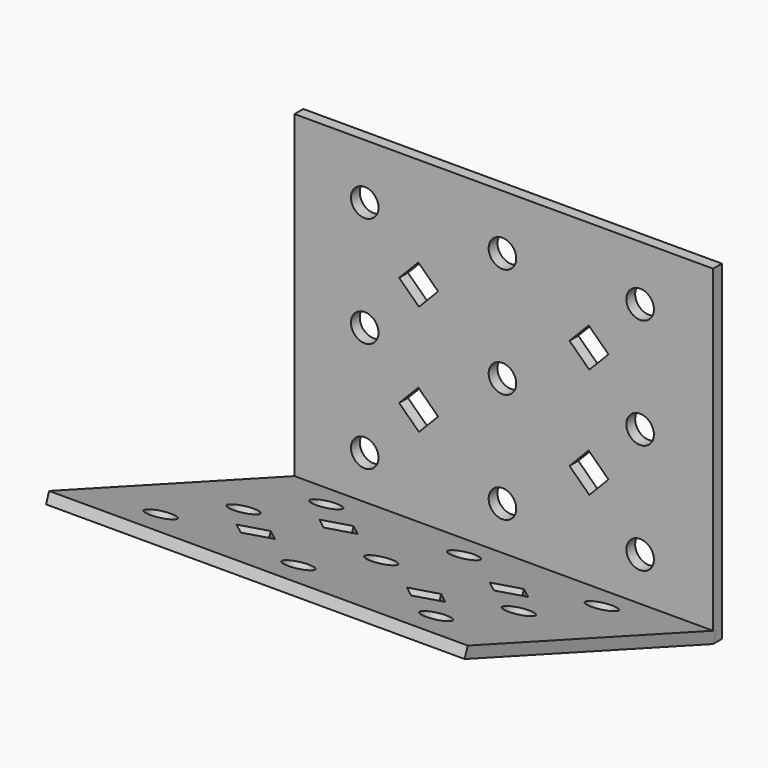
from build123d import *

# Parameters (mm, degrees)
F1_W     = 76
F1_H     = 60
F1_R     = 2.5
F2_DEPTH = 2
F3_ANGLE = 70


with BuildPart() as f2:
    # F1 (on Front) → F2 (new body)
    with BuildSketch(Plane.XZ):
        with Locations((0, 30)):
            Rectangle(F1_W, F1_H)
        with Locations((-25.25, 10)):
            Circle(F1_R, mode=Mode.SUBTRACT)
        with Locations((-0.25, 10)):
            Circle(F1_R, mode=Mode.SUBTRACT)
        Polygon((-15.5264410286, 23.5964410286), (-11.93, 20.1228820573), (-15.4035589714, 16.5264410286), (-19, 20), align=None, mode=Mode.SUBTRACT)
        with Locations((24.75, 10)):
            Circle(F1_R, mode=Mode.SUBTRACT)
        Polygon((15.4035589714, 23.5964410286), (19, 20.1228820573), (15.5264410286, 16.5264410286), (11.93, 20), align=None, mode=Mode.SUBTRACT)
        with Locations((-25.25, 30)):
            Circle(F1_R, mode=Mode.SUBTRACT)
        with Locations((-0.25, 30)):
            Circle(F1_R, mode=Mode.SUBTRACT)
        Polygon((-15.4035589714, 36.5264410286), (-19, 40), (-15.5264410286, 43.5964410286), (-11.93, 40.1228820573), align=None, mode=Mode.SUBTRACT)
        with Locations((-25.25, 50)):
            Circle(F1_R, mode=Mode.SUBTRACT)
        with Locations((-0.25, 50)):
            Circle(F1_R, mode=Mode.SUBTRACT)
        Polygon((15.4035589714, 43.5964410286), (19, 40.1228820573), (15.5264410286, 36.5264410286), (11.93, 40), align=None, mode=Mode.SUBTRACT)
        with Locations((24.75, 30)):
            Circle(F1_R, mode=Mode.SUBTRACT)
        with Locations((24.75, 50)):
            Circle(F1_R, mode=Mode.SUBTRACT)
    extrude(amount=F2_DEPTH)


with BuildPart() as f3_1:
    # F3: copy of F2
    add(f2.part.rotate(Axis((0, -2, 0), (1, 0, 0)), F3_ANGLE))


solid = Compound([f2.part, f3_1.part])
